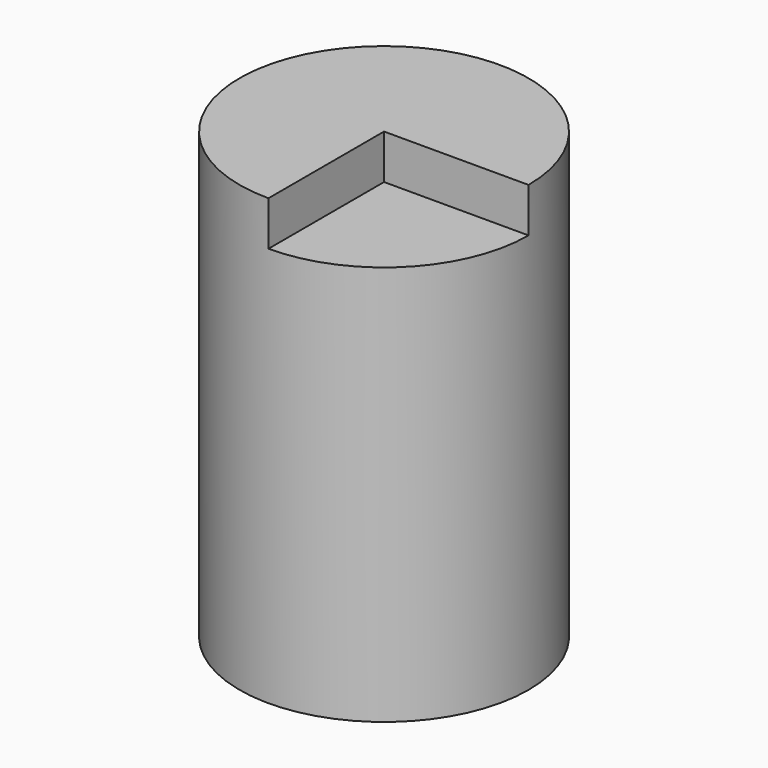
from build123d import *

# Parameters (mm, degrees)
F0_R     = 3.25
F1_DEPTH = 10
F3_DEPTH = 1


with BuildPart() as f1:
    # F0 (on Top) → F1 (new body)
    with BuildSketch(Plane.XY):
        Circle(F0_R)
    extrude(amount=F1_DEPTH)

    # F2 (on face) → F3 (cut)
    with BuildSketch(Plane.XY.offset(10)):
        with BuildLine():
            Line((6.379369, 0), (3.25, 0))
            ThreePointArc((3.25, 0), (2.298097, -2.298097), (0, -3.25))
            Line((0, -3.25), (0, -5.629462))
            Line((0, -5.629462), (6.379369, -5.629462))
            Line((6.379369, -5.629462), (6.379369, 0))
        make_face()
        with BuildLine():
            Line((3.25, 0), (0, 0))
            Line((0, 0), (0, -3.25))
            ThreePointArc((0, -3.25), (2.298097, -2.298097), (3.25, 0))
        make_face()
    extrude(amount=-F3_DEPTH, mode=Mode.SUBTRACT)


with BuildPart() as f4_1:
    # F4: copy of F1
    add(f1.part)


with BuildPart() as f5_1:
    # F5: copy of F4_1
    add(f4_1.part)


with BuildPart() as f6_1:
    # F6: copy of F5_1
    add(f5_1.part)


with BuildPart() as f7_1:
    # F7: copy of F6_1
    add(f6_1.part)


with BuildPart() as f8_1:
    # F8: copy of F7_1
    add(f7_1.part)


with BuildPart() as f9_1:
    # F9: copy of F8_1
    add(f8_1.part)


with BuildPart() as f10_1:
    # F10: copy of F9_1
    add(f9_1.part)


with BuildPart() as f11_1:
    # F11: copy of F1
    add(f1.part)


solid = f1.part
